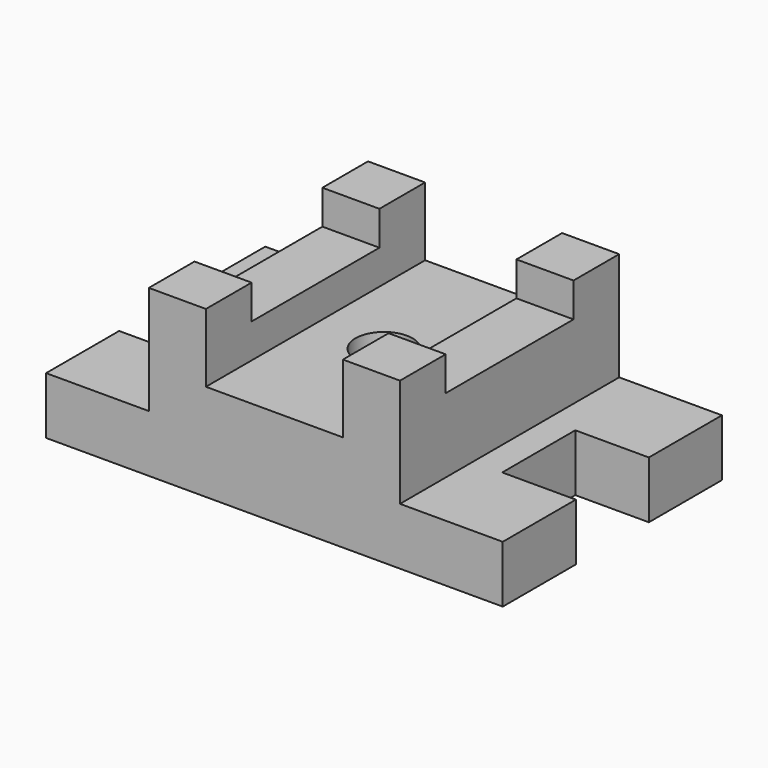
from build123d import *

# Parameters (mm, degrees)
F1_DEPTH = 31.75
F2_W     = 139.7
F2_H     = 152.4
F3_DEPTH = 22.225
F4_W     = 31.75
F4_H     = 152.4
F5_DEPTH = 19.05
F6_W     = 31.75
F6_H     = 31.75
F7_DEPTH = 19.05
F8_W     = 31.75
F8_H     = 31.75
F9_DEPTH = 19.05
F11_D    = 31.75


with BuildPart() as f1:
    # F0 (on Top) → F1 (new body)
    with BuildSketch(Plane.XY):
        Polygon((66.090132, 79.714037), (-187.909868, 79.714037), (-187.909868, 28.914037), (-146.634868, 28.914037), (-146.634868, -21.885963), (-187.909868, -21.885963), (-187.909868, -72.685963), (66.090132, -72.685963), (66.090132, -21.885963), (25.161228, -21.885963), (25.161228, 28.914037), (66.090132, 28.914037), align=None)
    extrude(amount=F1_DEPTH)

    # F2 (on face) → F3 (join)
    with BuildSketch(Plane.XY.offset(31.75)):
        with Locations((-60.909868, 3.514037)):
            Rectangle(F2_W, F2_H)
    extrude(amount=F3_DEPTH)

    # F4 (on face) → F5 (join)
    with BuildSketch(Plane.XY.offset(53.975)):
        with Locations((-114.884868, 3.514037)):
            Rectangle(F4_W, F4_H)
        with Locations((-6.934868, 3.514037)):
            Rectangle(F4_W, F4_H)
    extrude(amount=F5_DEPTH)

    # F6 (on face) → F7 (join)
    with BuildSketch(Plane.XY.offset(73.025)):
        with Locations((-114.884868, -56.810963)):
            Rectangle(F6_W, F6_H)
        with Locations((-114.884868, 63.839037)):
            Rectangle(F6_W, F6_H)
    extrude(amount=F7_DEPTH)

    # F8 (on face) → F9 (join)
    with BuildSketch(Plane.XY.offset(73.025)):
        with Locations((-6.934868, 63.839037)):
            Rectangle(F8_W, F8_H)
        with Locations((-6.934868, -56.810963)):
            Rectangle(F8_W, F8_H)
    extrude(amount=F9_DEPTH)

    # F11 (through all)
    with Locations(Plane.XY.offset(53.975)):
        with Locations((-60.909868, 3.514037)):
            Hole(F11_D / 2)


solid = f1.part
